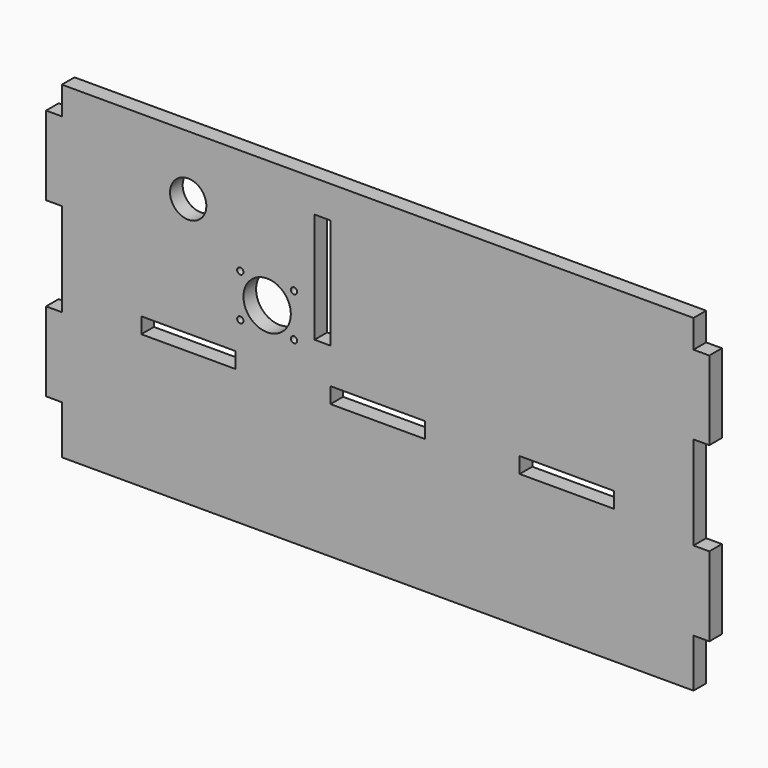
from build123d import *

# Parameters (mm, degrees)
SKETCH_W        = 59.8
SKETCH_H        = 10
SKETCH_W_2      = 10
SKETCH_H_2      = 69.8
PAD_DEPTH       = 10
SKETCH001_R     = 2
SKETCH001_R_2   = 15
POCKET_DEPTH    = 10.001
SKETCH002_R     = 11.5
POCKET001_DEPTH = 10.001


with BuildPart() as part:
    # Sketch → Pad (new body)
    with BuildSketch(Plane.XZ):
        Polygon((0, 0), (0, 30.73), (-10, 30.73), (-10, 80.93), (0, 80.93), (0, 140.1), (-10, 140.1), (-10, 190.1), (0, 190.1), (0, 207.8), (400, 207.8), (400, 190.1), (410, 190.1), (410, 140.1), (400, 140.1), (400, 80.93), (410, 80.93), (410, 30.73), (400, 30.73), (400, 0), align=None)
        with Locations((80.2, 90)):
            Rectangle(SKETCH_W, SKETCH_H, mode=Mode.SUBTRACT)
        with Locations((200, 90)):
            Rectangle(SKETCH_W, SKETCH_H, mode=Mode.SUBTRACT)
        with Locations((319.8, 90)):
            Rectangle(SKETCH_W, SKETCH_H, mode=Mode.SUBTRACT)
        with Locations((165, 152.5)):
            Rectangle(SKETCH_W_2, SKETCH_H_2, mode=Mode.SUBTRACT)
    extrude(amount=PAD_DEPTH)

    # Sketch001 → Pocket (cut, through all)
    with BuildSketch(Plane.XZ):
        with Locations((113, 140.6)):
            Circle(SKETCH001_R)
        with Locations((147, 140.6)):
            Circle(SKETCH001_R)
        with Locations((147, 113.4)):
            Circle(SKETCH001_R)
        with Locations((113, 113.4)):
            Circle(SKETCH001_R)
        with Locations((130, 127)):
            Circle(SKETCH001_R_2)
    extrude(amount=POCKET_DEPTH, mode=Mode.SUBTRACT)

    # Sketch002 → Pocket001 (cut, through all)
    with BuildSketch(Plane.XZ):
        with Locations((80, 170)):
            Circle(SKETCH002_R)
    extrude(amount=POCKET001_DEPTH, mode=Mode.SUBTRACT)


solid = part.part
